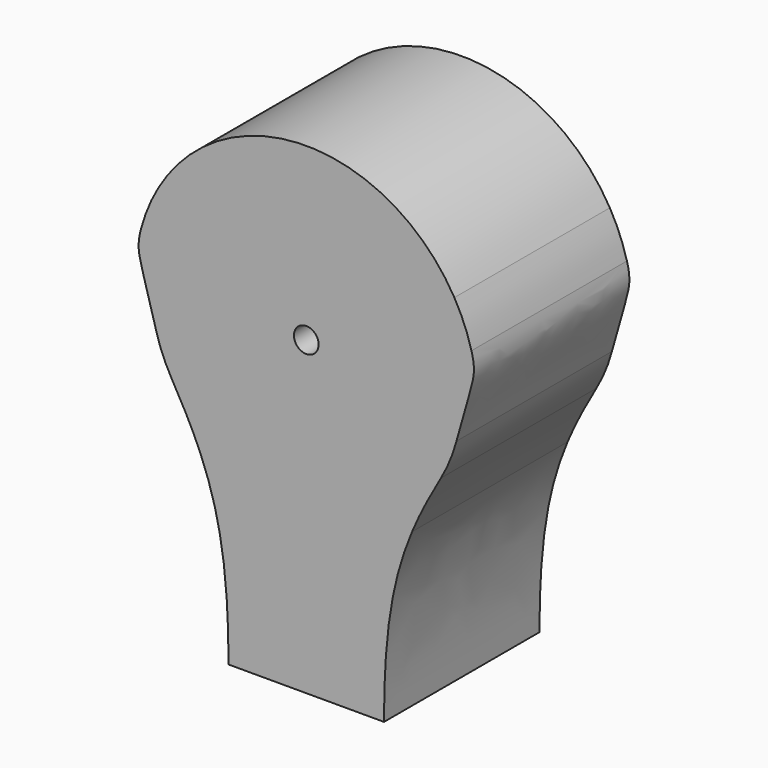
from build123d import *

# Parameters (mm, degrees)
F1_DEPTH = 25
F2_R     = 1.5875
F3_DEPTH = 25


with BuildPart() as f1:
    # F0 (on Front) → F1 (new body)
    with BuildSketch(Plane.XZ):
        with BuildLine():
            Line((-17.3205080757, 10), (0, 0))
            Line((0, 0), (17.3205080757, 10))
            ThreePointArc((17.3205080757, 10), (0, 20), (-17.3205080757, 10))
        make_face()
        with BuildLine():
            ThreePointArc((19.0525588833, 11), (0, 22), (-19.0525588833, 11))
            Line((-19.0525588833, 11), (-17.3205080757, 10))
            ThreePointArc((-17.3205080757, 10), (0, 20), (17.3205080757, 10))
            Line((17.3205080757, 10), (19.0525588833, 11))
        make_face()
        with BuildLine():
            Line((19.3185165258, 5.1763809021), (21.2503681784, 5.6940189923))
            ThreePointArc((21.2503681784, 5.6940189923), (20.3253497152, 8.419035512), (19.0525588833, 11))
            Line((19.0525588833, 11), (17.3205080757, 10))
            ThreePointArc((17.3205080757, 10), (18.4775906502, 7.6536686473), (19.3185165258, 5.1763809021))
        make_face()
        with BuildLine():
            Line((17.3205080757, 10), (0, 0))
            Line((0, 0), (19.3185165258, 5.1763809021))
            ThreePointArc((19.3185165258, 5.1763809021), (18.4775906502, 7.6536686473), (17.3205080757, 10))
        make_face()
        with BuildLine():
            Line((0, 0), (19.3185165258, -5.1763809021))
            ThreePointArc((19.3185165258, -5.1763809021), (19.8288972275, -2.6105238444), (20, 0))
            ThreePointArc((20, 0), (19.8288972275, 2.6105238444), (19.3185165258, 5.1763809021))
            Line((19.3185165258, 5.1763809021), (0, 0))
        make_face()
        with BuildLine():
            add(Edge.make_bspline(
                [(19.3185165258, -5.1763809021), (21.3890688866, 2.5510257083), (22.0268253137, 2.7962415134), (21.2503681784, 5.6940189923)],
                knots=[0, 0, 0, 0, 11.0407266369, 11.0407266369, 11.0407266369, 11.0407266369], degree=3))
            Line((21.2503681784, 5.6940189923), (19.3185165258, 5.1763809021))
            ThreePointArc((19.3185165258, 5.1763809021), (19.8288972275, 2.6105238444), (20, 0))
            ThreePointArc((20, 0), (19.8288972275, -2.6105238444), (19.3185165258, -5.1763809021))
        make_face()
        with BuildLine():
            Line((0, 0), (17.3205080757, -10))
            ThreePointArc((17.3205080757, -10), (18.4775906502, -7.6536686473), (19.3185165258, -5.1763809021))
            Line((19.3185165258, -5.1763809021), (0, 0))
        make_face()
        with BuildLine():
            ThreePointArc((-17.3205080757, -10), (0, -20), (17.3205080757, -10))
            Line((17.3205080757, -10), (0, 0))
            Line((0, 0), (-17.3205080757, 10))
            ThreePointArc((-17.3205080757, 10), (-19.8288972275, 2.6105238444), (-19.3185165258, -5.1763809021))
            ThreePointArc((-19.3185165258, -5.1763809021), (-18.4775906502, -7.6536686473), (-17.3205080757, -10))
        make_face()
        with BuildLine():
            Line((-10, -40), (10, -40))
            add(Edge.make_bspline(
                [(13.6086616321, -17.2859575547), (11.1605636245, -23.1152490417), (10, -29.3919833148), (10, -40)],
                knots=[9.0417028431, 9.0417028431, 9.0417028431, 9.0417028431, 30.8802499745, 30.8802499745, 30.8802499745, 30.8802499745], degree=3))
            ThreePointArc((13.6086616321, -17.2859575547), (13.1773214563, -17.6169860997), (12.7379323807, -17.9372539332))
            ThreePointArc((12.7379323807, -17.9372539332), (-0.543681065, -21.9932810399), (-13.6086616321, -17.2859575547))
            add(Edge.make_bspline(
                [(-13.6086616321, -17.2859575547), (-11.1605636245, -23.1152490417), (-10, -29.3919833148), (-10, -40)],
                knots=[9.0417028431, 9.0417028431, 9.0417028431, 9.0417028431, 30.8802499745, 30.8802499745, 30.8802499745, 30.8802499745], degree=3))
        make_face()
        with BuildLine():
            add(Edge.make_bspline(
                [(-17.3205080757, -10), (-15.8565136374, -12.5357127491), (-14.6222352267, -14.8724855827), (-13.6086616321, -17.2859575547)],
                knots=[0, 0, 0, 0, 9.0417028431, 9.0417028431, 9.0417028431, 9.0417028431], degree=3))
            ThreePointArc((-13.6086616321, -17.2859575547), (-0.543681065, -21.9932810399), (12.7379323807, -17.9372539332))
            Line((12.7379323807, -17.9372539332), (17.3205080757, -10))
            ThreePointArc((17.3205080757, -10), (0, -20), (-17.3205080757, -10))
        make_face()
        with BuildLine():
            ThreePointArc((-19.0525588833, 11), (-20.3253497152, 8.419035512), (-21.2503681784, 5.6940189923))
            add(Edge.make_bspline(
                [(-19.3185165258, -5.1763809021), (-21.3890688866, 2.5510257083), (-22.0268253137, 2.7962415134), (-21.2503681784, 5.6940189923)],
                knots=[0, 0, 0, 0, 11.0407266369, 11.0407266369, 11.0407266369, 11.0407266369], degree=3))
            ThreePointArc((-19.3185165258, -5.1763809021), (-19.8288972275, 2.6105238444), (-17.3205080757, 10))
            Line((-17.3205080757, 10), (-19.0525588833, 11))
        make_face()
        with BuildLine():
            ThreePointArc((12.7379323807, -17.9372539332), (13.1773214563, -17.6169860997), (13.6086616321, -17.2859575547))
            add(Edge.make_bspline(
                [(17.3205080757, -10), (15.8565136374, -12.5357127491), (14.6222352267, -14.8724855827), (13.6086616321, -17.2859575547)],
                knots=[0, 0, 0, 0, 9.0417028431, 9.0417028431, 9.0417028431, 9.0417028431], degree=3))
            Line((17.3205080757, -10), (12.7379323807, -17.9372539332))
        make_face()
    extrude(amount=F1_DEPTH)

    # F2 (on face) → F3 (cut)
    with BuildSketch(Plane.XZ.offset(25)):
        Circle(F2_R)
    extrude(amount=-F3_DEPTH, mode=Mode.SUBTRACT)


solid = f1.part
